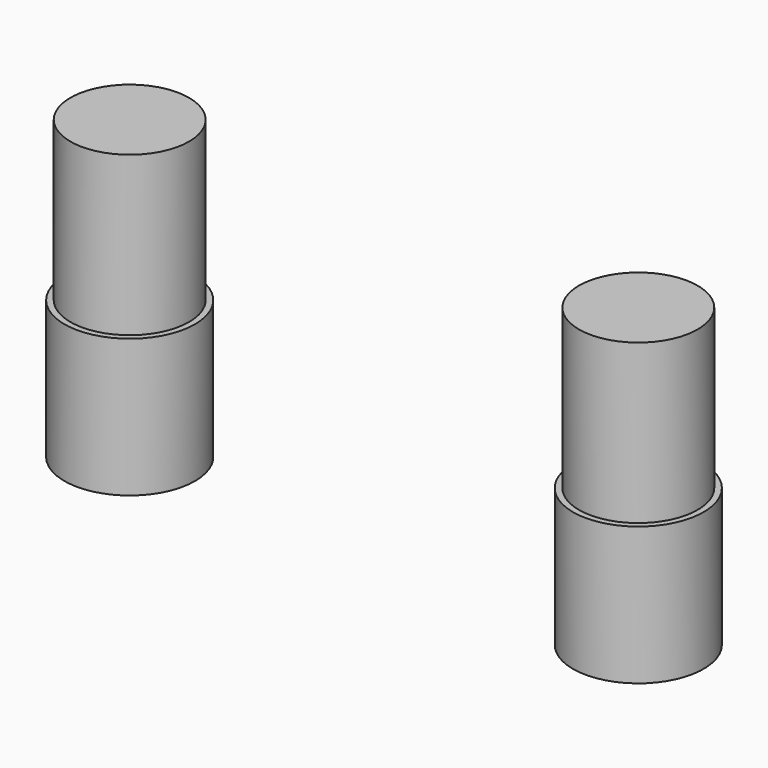
from build123d import *


with BuildPart() as f1:
    # F0 (on Front) → F1 (revolve)
    with BuildSketch(Plane.XZ):
        Polygon((-79.1125, 64.468499), (-103.1875, 64.468499), (-103.1875, 0), (-103.1875, -56.024422), (-76.6875, -56.024422), (-76.6875, 0), (-79.1125, 0), align=None)
    revolve(axis=Axis((-103.1875, 0, 56.685284), (0, 0, 1)))


with BuildPart() as f2_1:
    # F2: instance of F1
    add(f1.part.mirror(Plane.YZ))


solid = Compound([f1.part, f2_1.part])
